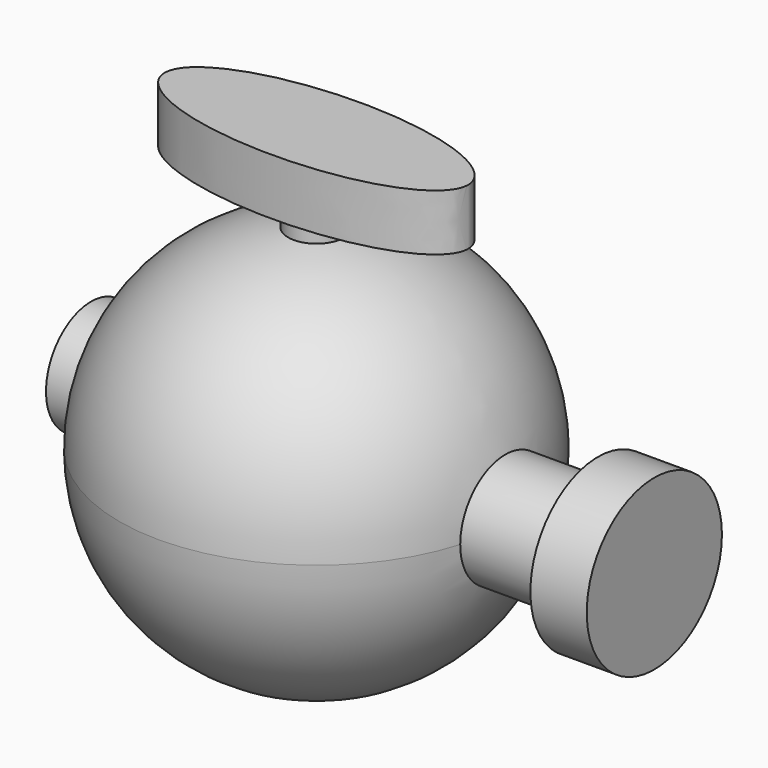
from build123d import *

# Parameters (mm, degrees)
F3_START      = 25.4
F3_DEPTH      = 6.35
F4_R          = 6.35
F5_DEPTH      = 38.1
F5_DEPTH_BACK = 25.4
F6_START      = 31.75
F4_R_2        = 9.525
F6_DEPTH      = 6.35
F7_R          = 3.175
F8_DEPTH      = 25.4


with BuildPart() as f1:
    # F0 (on Front) → F1 (revolve)
    with BuildSketch(Plane.XZ):
        with BuildLine():
            ThreePointArc((0, -22.225), (15.7154482119, -15.7154482119), (22.225, 0))
            ThreePointArc((22.225, 0), (15.7154482119, 15.7154482119), (0, 22.225))
            Line((0, 22.225), (0, -22.225))
        make_face()
    revolve(axis=Axis((0, 0, -2.3260256276), (0, 0, 1)))



with BuildPart() as f3:
    # F2 (on Top) → F3 (new body)
    with BuildSketch(Plane.XY.offset(F3_START)):
        with BuildLine():
            add(Edge.make_bspline(
                [(17.1051770449, 0), (17.1051770449, 10.9604673982), (-8.5525885224, 5.4802336991), (-34.2103540897, 0), (-8.5525885224, -5.4802336991), (17.1051770449, -10.9604673982), (17.1051770449, 0)],
                knots=[0, 0, 0, 2.0943951024, 2.0943951024, 4.1887902048, 4.1887902048, 6.2831853072, 6.2831853072, 6.2831853072], degree=2, weights=[1, 0.5, 1, 0.5, 1, 0.5, 1]))
        make_face()
    extrude(amount=F3_DEPTH)


with BuildPart() as f5:
    # F4 (on Right) → F5 (new body, two sides)
    with BuildSketch(Plane.YZ) as f5_sk:
        Circle(F4_R)
    extrude(amount=F5_DEPTH)
    extrude(f5_sk.sketch, amount=-F5_DEPTH_BACK)

    # F4 (on Right) → F6 (join)
    with BuildSketch(Plane.YZ.offset(F6_START)):
        Circle(F4_R_2)
        Circle(F4_R, mode=Mode.SUBTRACT)
    extrude(amount=F6_DEPTH)


with BuildPart() as f1_1:
    add(f1.part)

    add(f3.part)  # F8 merges F3

    add(f5.part)  # F8 merges F5
    # F7 (on face) → F8 (join)
    with BuildSketch(Plane.XY.offset(31.75)):
        Circle(F7_R)
    extrude(amount=-F8_DEPTH)


solid = f1_1.part
